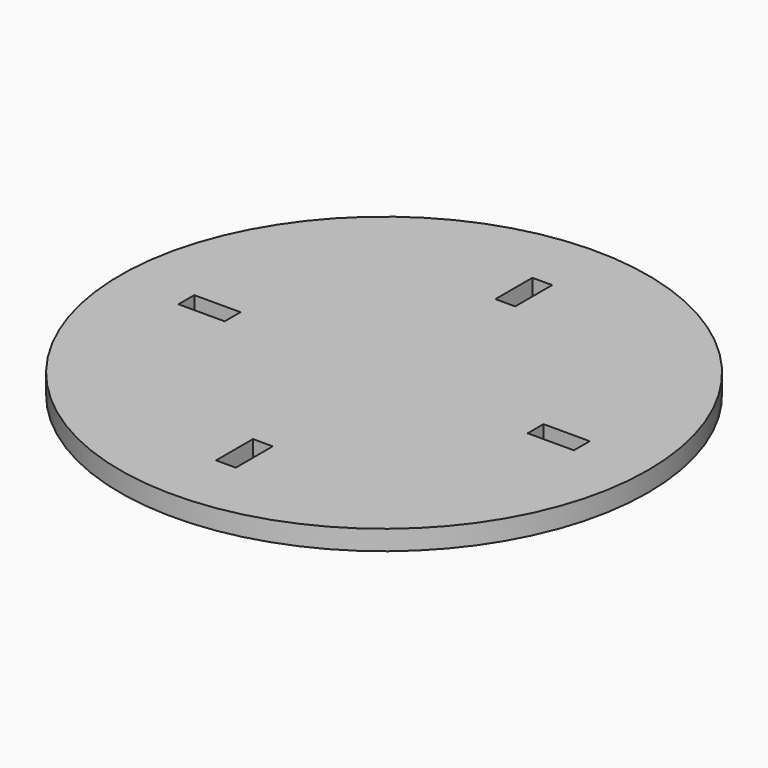
from build123d import *

# Parameters (mm, degrees)
F0_R     = 508
F1_DEPTH = 38.1
F2_W     = 88.9
F2_H     = 38.1
F2_W_2   = 38.1
F2_H_2   = 88.9
F3_DEPTH = 38.101


with BuildPart() as f1:
    # F0 (on Top) → F1 (new body)
    with BuildSketch(Plane.XY):
        Circle(F0_R)
    extrude(amount=-F1_DEPTH)

    # F2 (on face) → F3 (cut, through all)
    with BuildSketch(Plane(origin=(0, 0, -38.1), x_dir=(1, 0, 0), z_dir=(0, 0, -1))):
        with Locations((-336.073452, 0)):
            Rectangle(F2_W, F2_H)
        with Locations((0, -336.073452)):
            Rectangle(F2_W_2, F2_H_2)
        with Locations((336.073452, 0)):
            Rectangle(F2_W, F2_H)
        with Locations((0, 336.073452)):
            Rectangle(F2_W_2, F2_H_2)
    extrude(amount=-F3_DEPTH, mode=Mode.SUBTRACT)


solid = f1.part
